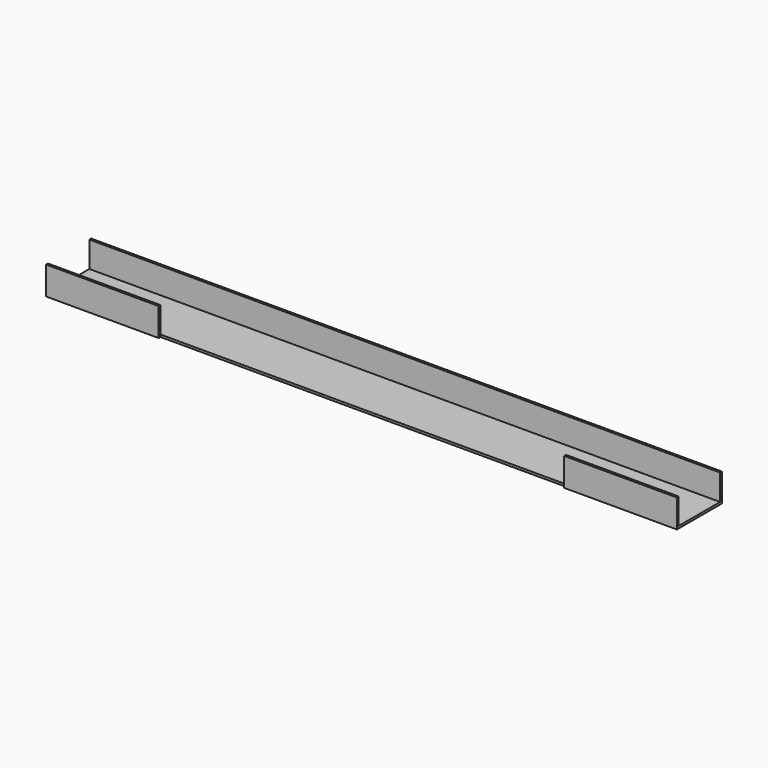
from build123d import *

# Parameters (mm, degrees)
F0_W     = 711.2
F0_H     = 31.75
F1_DEPTH = 63.5
F2_W     = 58.42
F2_H     = 29.21
F3_DEPTH = 711.201
F4_W     = 457.2
F4_H     = 31.75
F5_DEPTH = 2.54


with BuildPart() as f1:
    # F0 (on Front) → F1 (new body)
    with BuildSketch(Plane.XZ):
        Rectangle(F0_W, F0_H)
    extrude(amount=F1_DEPTH)

    # F2 (on face) → F3 (cut, through all)
    with BuildSketch(Plane.YZ.offset(355.6)):
        with Locations((-31.75, 1.27)):
            Rectangle(F2_W, F2_H)
    extrude(amount=-F3_DEPTH, mode=Mode.SUBTRACT)

    # F4 (on face) → F5 (cut)
    with BuildSketch(Plane.XZ.offset(63.5)):
        Rectangle(F4_W, F4_H)
    extrude(amount=-F5_DEPTH, mode=Mode.SUBTRACT)


solid = f1.part
